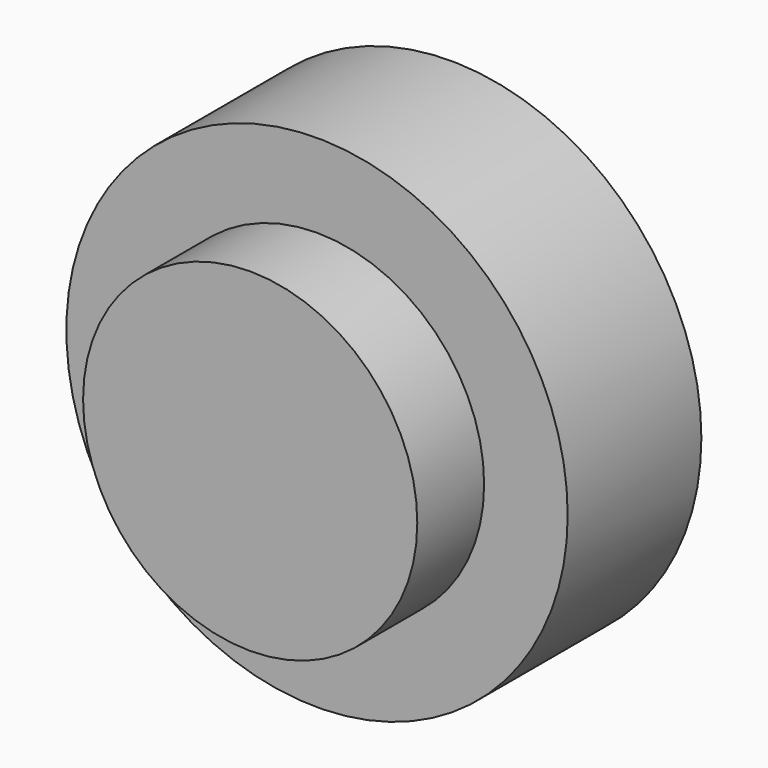
from build123d import *

# Parameters (mm, degrees)
F0_R     = 38.1
F1_DEPTH = 25.4
F2_R     = 25.4
F3_DEPTH = 25.4


with BuildPart() as f1:
    # F0 (on Front) → F1 (new body)
    with BuildSketch(Plane.XZ):
        Circle(F0_R)
    extrude(amount=F1_DEPTH)


with BuildPart() as f3:
    # F2 (on offset) → F3 (new body)
    with BuildSketch(Plane.XZ.offset(12.7)):
        Circle(F2_R)
    extrude(amount=F3_DEPTH)


solid = Compound([f1.part, f3.part])
